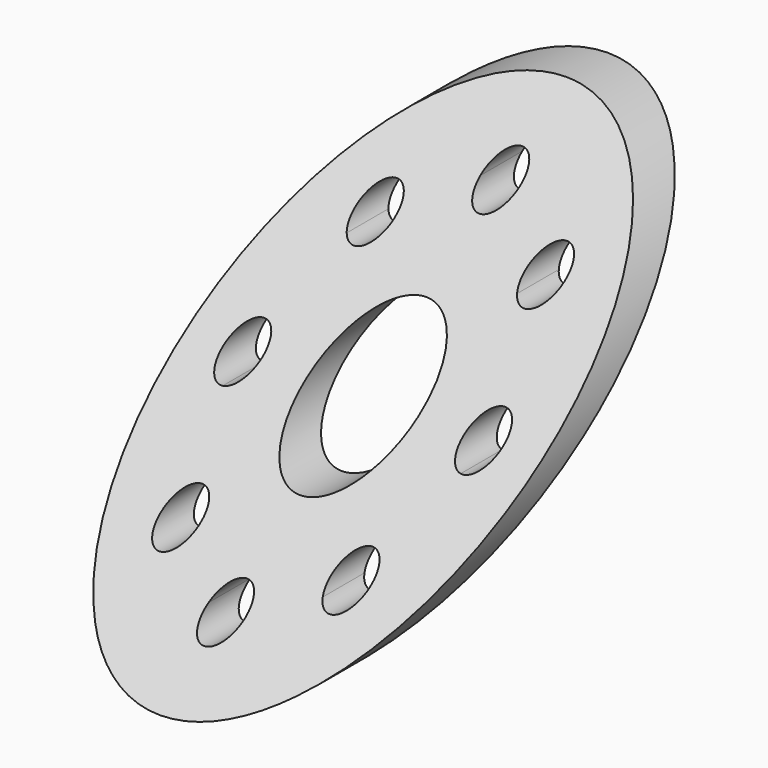
from build123d import *

# Parameters (mm, degrees)
F0_R          = 22.5
F1_DEPTH      = 101.6
F3_DEPTH      = 22.501
F3_DEPTH_BACK = 22.501
F4_DEPTH      = 22.501
F4_DEPTH_BACK = 22.501
F6_DEPTH      = 83.079608795
F7_R          = 2.38125
F8_DEPTH      = 83.079608795
F9_R          = 2.38125
F9_R_2        = 6.985
F10_DEPTH     = 83.079608795


with BuildPart() as f1:
    # F0 (on Front) → F1 (new body)
    with BuildSketch(Plane.XZ):
        Circle(F0_R)
    extrude(amount=F1_DEPTH)

    # F2 (on Right) → F3 (cut, two sides)
    with BuildSketch(Plane.YZ) as f3_sk:
        Polygon((-106.5287748777, -38.457716324), (-83.0848926463, -22.5044), (-18.8056646404, 22.5044), (-103.6715880036, 26.2515861541), align=None)
    extrude(amount=-F3_DEPTH, mode=Mode.SUBTRACT)
    extrude(f3_sk.sketch, amount=F3_DEPTH_BACK, mode=Mode.SUBTRACT)

    # F2 (on Right) → F4 (cut, two sides)
    with BuildSketch(Plane.YZ) as f4_sk:
        Polygon((-12.2079484916, 22.5), (-76.4808926463, -22.5044), (27.3525305092, -35.9458737075), (27.3525305092, 27.8113950044), align=None)
    extrude(amount=-F4_DEPTH, mode=Mode.SUBTRACT)
    extrude(f4_sk.sketch, amount=F4_DEPTH_BACK, mode=Mode.SUBTRACT)

    # F5 (on Front) → F6 (cut, through all)
    with BuildSketch(Plane.XZ):
        with BuildLine():
            ThreePointArc((8.9661090106, -12.3234122389), (9.901471319, -11.5852693417), (10.7763073453, -10.7763073453))
            Line((10.7763073453, -10.7763073453), (9.0925093226, -9.0925093226))
            ThreePointArc((9.0925093226, -9.0925093226), (8.3968775712, -10.6832186102), (8.9661090106, -12.3234122389))
        make_face()
        with BuildLine():
            ThreePointArc((10.7763073453, -10.7763073453), (11.5852693417, -9.901471319), (12.3234122389, -8.9661090106))
            ThreePointArc((12.3234122389, -8.9661090106), (10.6832186102, -8.3968775712), (9.0925093226, -9.0925093226))
            Line((9.0925093226, -9.0925093226), (10.7763073453, -10.7763073453))
        make_face()
        with BuildLine():
            Line((12.460105368, -12.460105368), (10.7763073453, -10.7763073453))
            ThreePointArc((10.7763073453, -10.7763073453), (9.901471319, -11.5852693417), (8.9661090106, -12.3234122389))
            ThreePointArc((8.9661090106, -12.3234122389), (10.6832186102, -13.1557371194), (12.460105368, -12.460105368))
        make_face()
        with BuildLine():
            ThreePointArc((15.0539648438, -2.3739718792), (15.1934200268, -1.190625), (15.24, 0))
            ThreePointArc((15.24, 0), (15.1934200268, 1.190625), (15.0539648438, 2.3739718792))
            ThreePointArc((15.0539648438, 2.3739718792), (12.85875, 0), (15.0539648438, -2.3739718792))
        make_face()
        with BuildLine():
            ThreePointArc((15.0539648438, 2.3739718792), (15.1934200268, 1.190625), (15.24, 0))
            ThreePointArc((15.24, 0), (15.1934200268, -1.190625), (15.0539648438, -2.3739718792))
            ThreePointArc((15.0539648438, -2.3739718792), (16.8566872528, -1.7483346045), (17.62125, 0))
            ThreePointArc((17.62125, 0), (16.8566872528, 1.7483346045), (15.0539648438, 2.3739718792))
        make_face()
        with BuildLine():
            ThreePointArc((-2.3739718792, 15.0539648438), (0, 15.24), (2.3739718792, 15.0539648438))
            ThreePointArc((2.3739718792, 15.0539648437), (2.3794297741, 15.1469112649), (2.38125, 15.24))
            ThreePointArc((2.38125, 15.24), (-0.0930887351, 17.6194297741), (-2.3739718792, 15.0539648438))
        make_face()
        with BuildLine():
            ThreePointArc((-2.3739718792, 15.0539648438), (0, 12.85875), (2.3739718792, 15.0539648437))
            ThreePointArc((2.3739718792, 15.0539648438), (0, 15.24), (-2.3739718792, 15.0539648438))
        make_face()
        with BuildLine():
            ThreePointArc((2.38125, -15.24), (2.3794297741, -15.1469112649), (2.3739718792, -15.0539648437))
            ThreePointArc((2.3739718792, -15.0539648438), (0, -15.24), (-2.3739718792, -15.0539648438))
            ThreePointArc((-2.3739718792, -15.0539648438), (-0.0930887351, -17.6194297741), (2.38125, -15.24))
        make_face()
        with BuildLine():
            ThreePointArc((-12.3234122389, 8.9661090106), (-10.6832186102, 8.3968775712), (-9.0925093226, 9.0925093226))
            Line((-9.0925093226, 9.0925093226), (-10.7763073453, 10.7763073453))
            ThreePointArc((-10.7763073453, 10.7763073453), (-11.5852693417, 9.901471319), (-12.3234122389, 8.9661090106))
        make_face()
        with BuildLine():
            ThreePointArc((-12.3234122389, 8.9661090106), (-11.5852693417, 9.901471319), (-10.7763073453, 10.7763073453))
            Line((-10.7763073453, 10.7763073453), (-12.460105368, 12.460105368))
            ThreePointArc((-12.460105368, 12.460105368), (-13.1557371194, 10.6832186102), (-12.3234122389, 8.9661090106))
        make_face()
        with BuildLine():
            ThreePointArc((-8.3950573453, -10.7763073453), (-8.5763192085, -9.865042422), (-9.0925093226, -9.0925093226))
            Line((-9.0925093226, -9.0925093226), (-10.7763073453, -10.7763073453))
            ThreePointArc((-10.7763073453, -10.7763073453), (-9.901471319, -11.5852693417), (-8.9661090106, -12.3234122389))
            ThreePointArc((-8.9661090106, -12.3234122389), (-8.5423773613, -11.6008729213), (-8.3950573453, -10.7763073453))
        make_face()
        with BuildLine():
            ThreePointArc((-15.24, 0), (-15.1934200268, 1.190625), (-15.0539648438, 2.3739718792))
            ThreePointArc((-15.0539648438, 2.3739718792), (-17.62125, 0), (-15.0539648438, -2.3739718792))
            ThreePointArc((-15.0539648438, -2.3739718792), (-15.1934200268, -1.190625), (-15.24, 0))
        make_face()
        with BuildLine():
            ThreePointArc((9.0925093226, 9.0925093226), (10.6832186102, 8.3968775712), (12.3234122389, 8.9661090106))
            ThreePointArc((12.3234122389, 8.9661090106), (11.5852693417, 9.901471319), (10.7763073453, 10.7763073453))
            Line((10.7763073453, 10.7763073453), (9.0925093226, 9.0925093226))
        make_face()
        with BuildLine():
            ThreePointArc((-15.0539648438, -2.3739718792), (-13.4916653955, -1.6166872528), (-12.85875, 0))
            Line((-12.85875, 0), (-15.24, 0))
            ThreePointArc((-15.24, 0), (-15.1934200268, -1.190625), (-15.0539648438, -2.3739718792))
        make_face()
        with BuildLine():
            Line((-15.24, 0), (-12.85875, 0))
            ThreePointArc((-12.85875, 0), (-13.4916653955, 1.6166872528), (-15.0539648438, 2.3739718792))
            ThreePointArc((-15.0539648438, 2.3739718792), (-15.1934200268, 1.190625), (-15.24, 0))
        make_face()
        with BuildLine():
            Line((-10.7763073453, 10.7763073453), (-9.0925093226, 9.0925093226))
            ThreePointArc((-9.0925093226, 9.0925093226), (-8.5763192085, 9.865042422), (-8.3950573453, 10.7763073453))
            ThreePointArc((-8.3950573453, 10.7763073453), (-8.5423773613, 11.6008729213), (-8.9661090106, 12.3234122389))
            ThreePointArc((-8.9661090106, 12.3234122389), (-9.901471319, 11.5852693417), (-10.7763073453, 10.7763073453))
        make_face()
        with BuildLine():
            Line((9.0925093226, 9.0925093226), (10.7763073453, 10.7763073453))
            ThreePointArc((10.7763073453, 10.7763073453), (9.901471319, 11.5852693417), (8.9661090106, 12.3234122389))
            ThreePointArc((8.9661090106, 12.3234122389), (8.3968775712, 10.6832186102), (9.0925093226, 9.0925093226))
        make_face()
        with BuildLine():
            ThreePointArc((-2.3739718792, -15.0539648438), (0, -15.24), (2.3739718792, -15.0539648438))
            ThreePointArc((2.3739718792, -15.0539648437), (0, -12.85875), (-2.3739718792, -15.0539648438))
        make_face()
    extrude(amount=F6_DEPTH, mode=Mode.SUBTRACT)

    # F7 (on Front) → F8 (cut, through all)
    with BuildSketch(Plane.XZ):
        with Locations((10.7763073453, 10.7763073453)):
            Circle(F7_R)
    extrude(amount=F8_DEPTH, mode=Mode.SUBTRACT)

    # F9 (on Front) → F10 (cut, through all)
    with BuildSketch(Plane.XZ):
        with Locations((10.7763073453, -10.7763073453)):
            Circle(F9_R)
        with Locations((-10.7763073453, -10.7763073453)):
            Circle(F9_R)
        with Locations((-10.7763073453, 10.7763073453)):
            Circle(F9_R)
        Circle(F9_R_2)
    extrude(amount=F10_DEPTH, mode=Mode.SUBTRACT)


solid = f1.part
